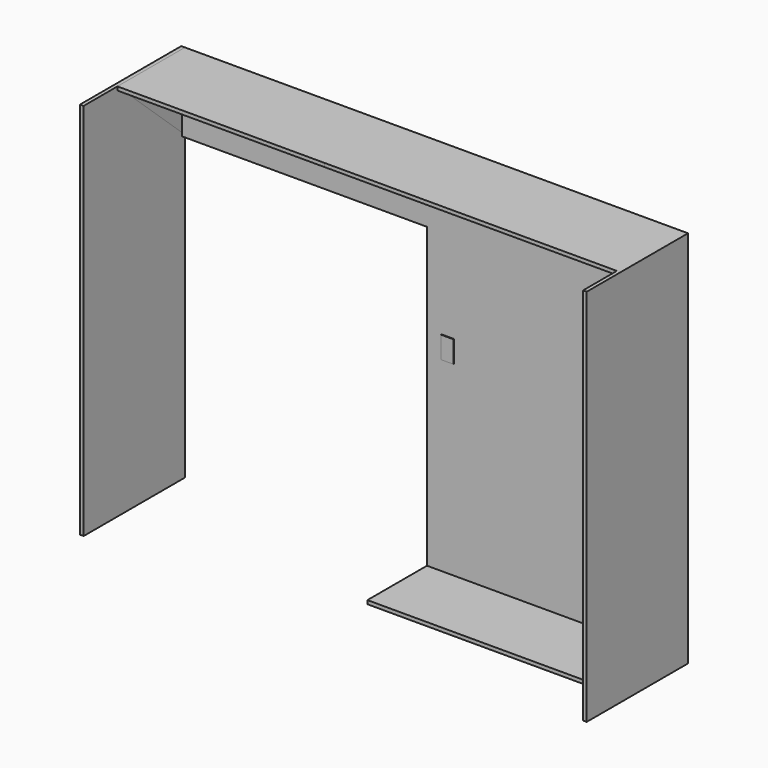
from build123d import *

# Parameters (mm, degrees)
F0_W      = 85
F0_H      = 150
F1_DEPTH  = 25
F2_DEPTH  = 30
F3_W      = 1740
F3_H      = 534.115434
F4_DEPTH  = 25
F5_W      = 2000
F5_H      = 552.191889
F6_DEPTH  = 25
F5_H_2    = 25
F7_DEPTH  = 25
F8_W      = 865.902603
F8_H      = 2589.536646
F9_DEPTH  = 25
F11_DEPTH = 1415
F12_W     = 865.822673
F12_H     = 2589.429961
F13_DEPTH = 25


with BuildPart() as f1:
    # F0 (on Front) → F1 (new body)
    with BuildSketch(Plane.XZ):
        Polygon((1890.710346, 2467.863321), (-109.289654, 2467.863321), (-109.289654, 1967.863321), (150.710346, 1967.863321), (150.710346, -72.136679), (1890.710346, -72.136679), align=None)
        with Locations((293.210346, 1277.863321)):
            Rectangle(F0_W, F0_H, mode=Mode.SUBTRACT)
    extrude(amount=F1_DEPTH)

    # F0 (on Front) → F2 (join)
    with BuildSketch(Plane.XZ):
        with Locations((293.210346, 1277.863321)):
            Rectangle(F0_W, F0_H)
    extrude(amount=F2_DEPTH)

    # F3 (on face) → F4 (join)
    with BuildSketch(Plane(origin=(0, 0, -72.136679), x_dir=(1, 0, 0), z_dir=(0, 0, -1))):
        with Locations((1020.710346, 267.057717)):
            Rectangle(F3_W, F3_H)
    extrude(amount=F4_DEPTH)


with BuildPart() as f6:
    # F5 (on face) → F6 (new body)
    with BuildSketch(Plane.XY.offset(2467.863321)):
        with Locations((890.710346, -301.095944)):
            Rectangle(F5_W, F5_H)
    extrude(amount=F6_DEPTH)


with BuildPart() as f7:
    # F5 (on face) → F7 (new body)
    with BuildSketch(Plane.XY.offset(2467.863321)):
        with Locations((890.710346, -12.5)):
            Rectangle(F5_W, F5_H_2)
    extrude(amount=F7_DEPTH)


with BuildPart() as f9:
    # F8 (on face) → F9 (new body)
    with BuildSketch(Plane.YZ.offset(1890.710346)):
        with Locations((-432.951301, 1198.094998)):
            Rectangle(F8_W, F8_H)
    extrude(amount=F9_DEPTH)


with BuildPart() as f1_1:
    add(f1.part)

    # F10: union F9, F7, F6
    add(f9.part)
    add(f7.part)
    add(f6.part)

    # F10_face (on face) → F11 (join)
    with BuildSketch(Plane(origin=(-109.289654, -160.440531, 2358.518735), x_dir=(0, -1, 0), z_dir=(-1, 0, 0))):
        Polygon((-160.440531, -390.655414), (-135.440531, -390.655414), (-135.440531, 109.344586), (416.751358, 109.344586), (416.751358, 134.344586), (-160.440531, 134.344586), align=None)
    extrude(amount=F11_DEPTH)

    # F12 (on face) → F13 (join)
    with BuildSketch(Plane(origin=(-1524.289654, 0, 0), x_dir=(0, -1, 0), z_dir=(-1, 0, 0))):
        with Locations((432.911337, 1198.14834)):
            Rectangle(F12_W, F12_H)
    extrude(amount=F13_DEPTH)


solid = f1_1.part
